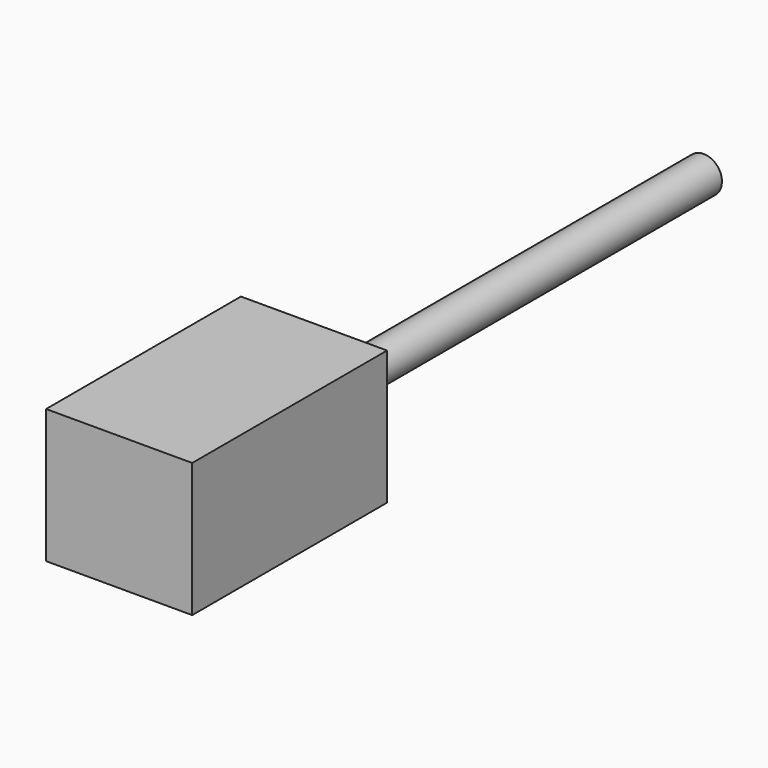
from build123d import *

# Parameters (mm, degrees)
F0_W     = 12
F0_H     = 20
F1_DEPTH = 11
F2_R     = 1.5
F3_DEPTH = 40


with BuildPart() as f1:
    # F0 (on Top) → F1 (new body)
    with BuildSketch(Plane.XY):
        Rectangle(F0_W, F0_H)
    extrude(amount=F1_DEPTH)

    # F2 (on face) → F3 (join)
    with BuildSketch(Plane(origin=(0, 10, 0), x_dir=(-1, 0, 0), z_dir=(0, 1, 0))):
        with Locations((0, 5.5)):
            Circle(F2_R)
    extrude(amount=F3_DEPTH)


solid = f1.part
